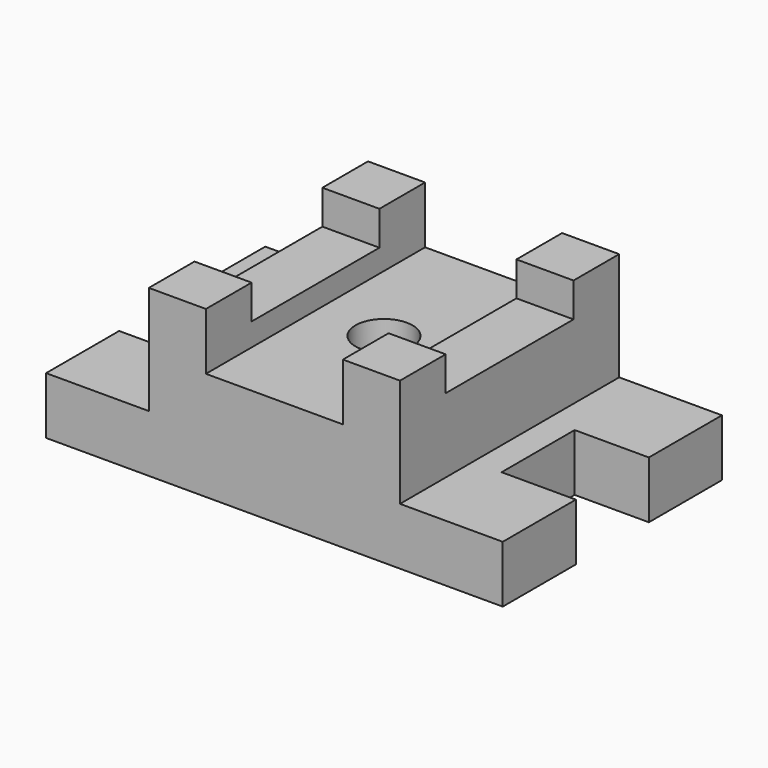
from build123d import *

# Parameters (mm, degrees)
F0_W     = 63.5
F0_H     = 63.5
F0_H_2   = 177.8
F0_R     = 31.75
F1_DEPTH = 184.15
F2_DEPTH = 120.65
F3_DEPTH = 63.5
F4_DEPTH = 38.1


with BuildPart() as f1:
    # F0 (on Top) → F1 (new body)
    with BuildSketch(Plane.XY):
        Polygon((-12.7, 152.4), (-127, 152.4), (-127, 50.8), (-44.45, 50.8), (-44.45, -50.8), (-127, -50.8), (-127, -152.4), (-12.7, -152.4), (-12.7, -88.9), (-12.7, 88.9), align=None)
        with Locations((19.05, 120.65)):
            Rectangle(F0_W, F0_H)
        with Locations((19.05, 0)):
            Rectangle(F0_W, F0_H_2)
        with Locations((19.05, -120.65)):
            Rectangle(F0_W, F0_H)
        with Locations((234.95, 0)):
            Rectangle(F0_W, F0_H_2)
        with Locations((234.95, 120.65)):
            Rectangle(F0_W, F0_H)
        with Locations((234.95, -120.65)):
            Rectangle(F0_W, F0_H)
        Polygon((381, 152.4), (266.7, 152.4), (266.7, 88.9), (266.7, -88.9), (266.7, -152.4), (381, -152.4), (381, -50.8), (298.45, -50.8), (298.45, 50.8), (381, 50.8), align=None)
        Polygon((203.2, 152.4), (50.8, 152.4), (50.8, 88.9), (50.8, -88.9), (50.8, -152.4), (203.2, -152.4), (203.2, -88.9), (203.2, 88.9), align=None)
        with Locations((127, 0)):
            Circle(F0_R, mode=Mode.SUBTRACT)
    extrude(amount=-F1_DEPTH)

    # F0 (on Top) → F2 (cut)
    with BuildSketch(Plane.XY):
        Polygon((-12.7, 152.4), (-127, 152.4), (-127, 50.8), (-44.45, 50.8), (-44.45, -50.8), (-127, -50.8), (-127, -152.4), (-12.7, -152.4), (-12.7, -88.9), (-12.7, 88.9), align=None)
        Polygon((381, 152.4), (266.7, 152.4), (266.7, 88.9), (266.7, -88.9), (266.7, -152.4), (381, -152.4), (381, -50.8), (298.45, -50.8), (298.45, 50.8), (381, 50.8), align=None)
    extrude(amount=-F2_DEPTH, mode=Mode.SUBTRACT)

    # F0 (on Top) → F3 (cut)
    with BuildSketch(Plane.XY):
        Polygon((203.2, 152.4), (50.8, 152.4), (50.8, 88.9), (50.8, -88.9), (50.8, -152.4), (203.2, -152.4), (203.2, -88.9), (203.2, 88.9), align=None)
        with Locations((127, 0)):
            Circle(F0_R, mode=Mode.SUBTRACT)
    extrude(amount=-F3_DEPTH, mode=Mode.SUBTRACT)

    # F0 (on Top) → F4 (cut)
    with BuildSketch(Plane.XY):
        with Locations((19.05, 0)):
            Rectangle(F0_W, F0_H_2)
        with Locations((234.95, 0)):
            Rectangle(F0_W, F0_H_2)
    extrude(amount=-F4_DEPTH, mode=Mode.SUBTRACT)


solid = f1.part
